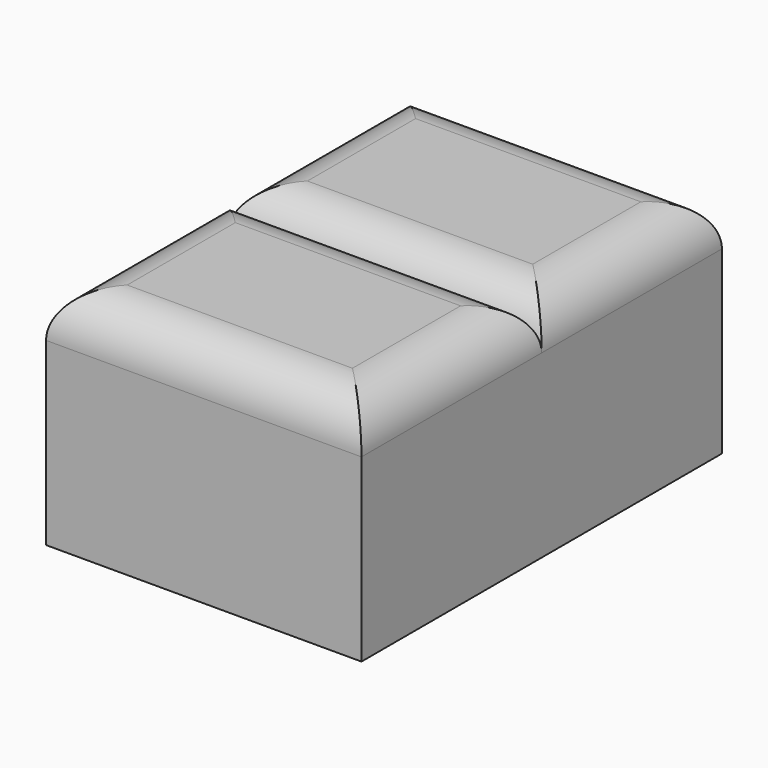
from build123d import *

# Parameters (mm, degrees)
F0_W     = 177.8
F0_H     = 127
F1_DEPTH = 127
F2_R     = 25.4


with BuildPart() as f1:
    # F0 (on Top) → F1 (new body)
    with BuildSketch(Plane.XY):
        with Locations((88.9, 63.5)):
            Rectangle(F0_W, F0_H)
    extrude(amount=F1_DEPTH)

    # F2
    f2_edges = [f1.edges().sort_by_distance(p)[0] for p in [
        (0, 63.5, 127),
        (88.9, 0, 127),
        (88.9, 127, 127),
        (177.8, 63.5, 127),
    ]]
    fillet(f2_edges, radius=F2_R)

    # F3: F1 across plane


with BuildPart() as f1_1:
    add(f1.part)
    add(f1.part.mirror(Plane.XZ))


solid = f1_1.part
